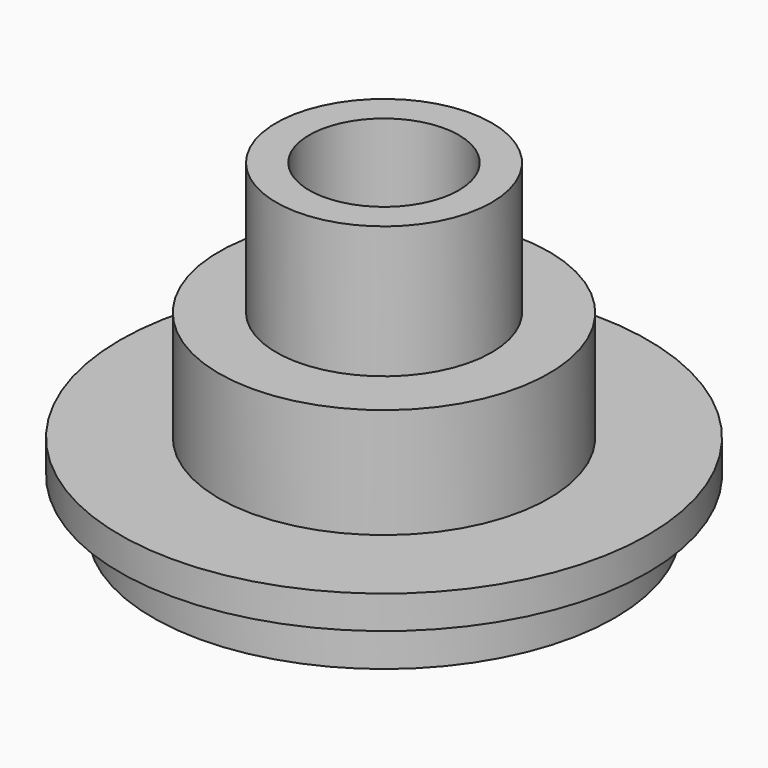
from build123d import *

# Parameters (mm, degrees)
F2_R     = 4.9
F3_DEPTH = 6
F4_R     = 3.4
F5_DEPTH = 14.801


with BuildPart() as f1:
    # F0 (on Right) → F1 (revolve)
    with BuildSketch(Plane.YZ):
        Polygon((0, 6.5), (0, 0), (8.5, 0), (8.5, -2.3), (10.5, -2.3), (10.5, 0), (12, 0), (12, 1.5), (7.5, 1.5), (7.5, 6.5), align=None)
    revolve(axis=Axis((0, 0, 3.25), (0, 0, -1)))

    # F2 (on face) → F3 (join)
    with BuildSketch(Plane.XY.offset(6.5)):
        Circle(F2_R)
    extrude(amount=F3_DEPTH)

    # F4 (on face) → F5 (cut, through all)
    with BuildSketch(Plane.XY.offset(12.5)):
        Circle(F4_R)
    extrude(amount=-F5_DEPTH, mode=Mode.SUBTRACT)


solid = f1.part
